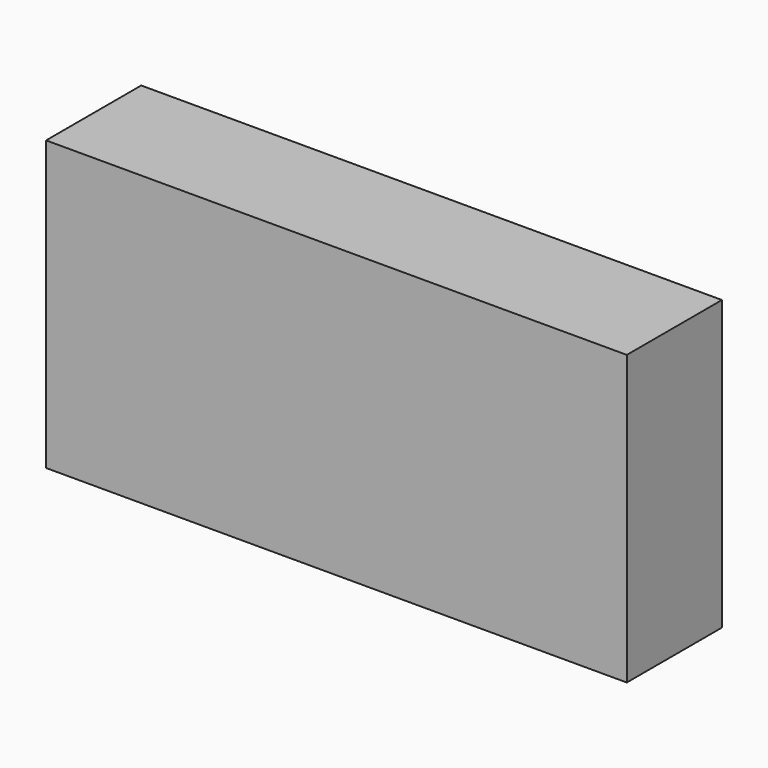
from build123d import *

# Parameters (mm, degrees)
F0_W     = 124.060318
F0_H     = 61.61835
F1_DEPTH = 25.4
F2_R     = 17.541001
F3_DEPTH = 25.4
F5_DEPTH = 61.61935


with BuildPart() as f1:
    # F0 (on Front) → F1 (new body)
    with BuildSketch(Plane.XZ):
        Rectangle(F0_W, F0_H)
    extrude(amount=F1_DEPTH)

    # F2 (on face) → F3 (join)
    with BuildSketch(Plane(origin=(0, 0, 0), x_dir=(-1, 0, 0), z_dir=(0, 1, 0))):
        with Locations((-17.289521, -2.959591)):
            Circle(F2_R)
    extrude(amount=F3_DEPTH)

    # F4 (on face) → F5 (cut, through all)
    with BuildSketch(Plane(origin=(0, 0, -30.809175), x_dir=(1, 0, 0), z_dir=(0, 0, -1))):
        Polygon((-0.25148, -25.4), (34.830522, -25.4), (-0.25148, 0), align=None)
    extrude(amount=-F5_DEPTH, mode=Mode.SUBTRACT)


solid = f1.part
